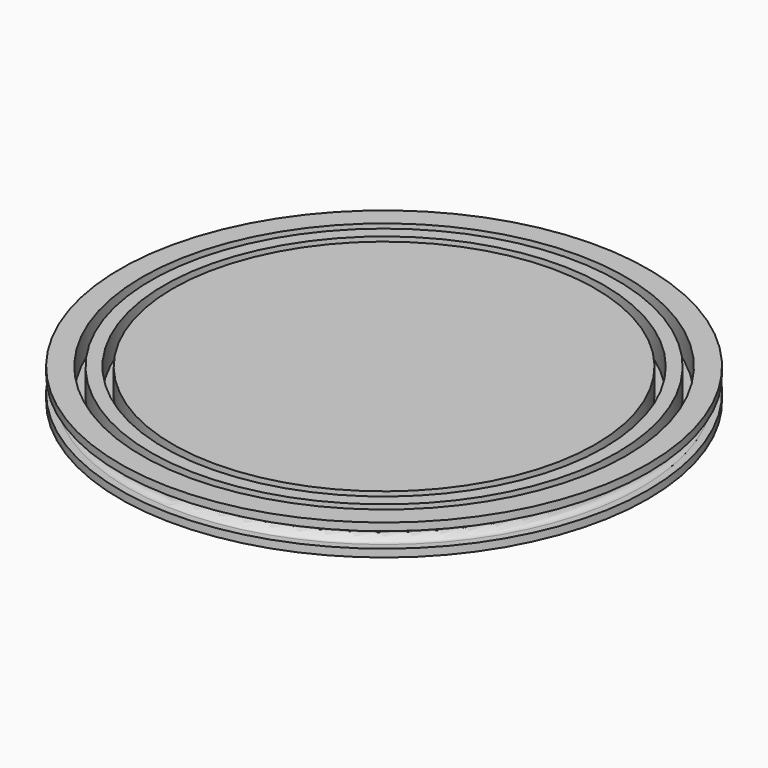
from build123d import *

# Parameters (mm, degrees)
F0_R     = 30
F0_R_2   = 27.5
F0_R_3   = 26.5
F0_R_4   = 25
F0_R_5   = 24
F1_DEPTH = 3
F2_R     = 30
F3_DEPTH = 0.5


with BuildPart() as f1:
    # F0 (on Top) → F1 (new body)
    with BuildSketch(Plane.XY):
        Circle(F0_R)
        Circle(F0_R_2, mode=Mode.SUBTRACT)
        Circle(F0_R_3)
        Circle(F0_R_4, mode=Mode.SUBTRACT)
        Circle(F0_R_5)
    extrude(amount=F1_DEPTH)

    # F2 (on face) → F3 (join)
    with BuildSketch(Plane(origin=(0, 0, 0), x_dir=(1, 0, 0), z_dir=(0, 0, -1))):
        Circle(F2_R)
    extrude(amount=F3_DEPTH)

    # F4 (on Front) → F5 (revolve, cut)
    with BuildSketch(Plane.XZ):
        with BuildLine():
            Line((29.200135, 0.382014), (30.000135, 0.382014))
            ThreePointArc((30.000135, 0.382014), (30.875135, 1.257014), (30.000135, 2.132014))
            Line((30.000135, 2.132014), (29.200135, 2.132014))
            ThreePointArc((29.200135, 2.132014), (28.63445, 1.897699), (28.400135, 1.332014))
            Line((28.400135, 1.332014), (28.400135, 1.182014))
            ThreePointArc((28.400135, 1.182014), (28.63445, 0.616328), (29.200135, 0.382014))
        make_face()
    revolve(axis=Axis((0, 0, 0), (0, 0, -1)), mode=Mode.SUBTRACT)


solid = f1.part
